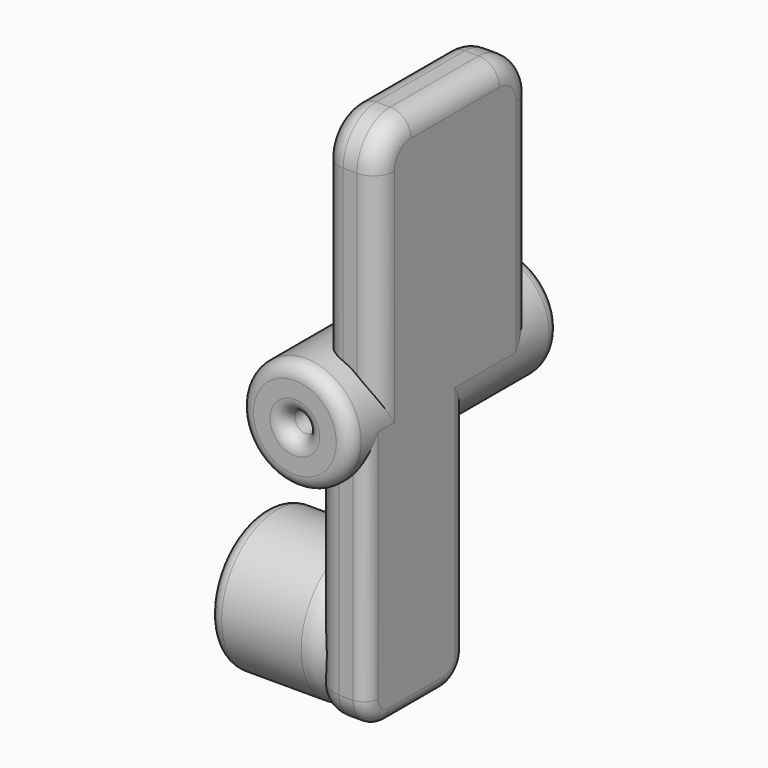
from build123d import *

# Parameters (mm, degrees)
CYLINDER015_R     = 5
CYLINDER015_DEPTH = 10
FILLET022_R       = 1
CHAMFER_SIZE      = 2
FILLET023_R       = 3
CYLINDER010_R     = 0.8
CYLINDER010_DEPTH = 20
CYLINDER009_R     = 4
CYLINDER009_DEPTH = 19
BOX003_W          = 4
BOX003_H          = 9
BOX003_DEPTH      = 19
FILLET_R          = 2
FILLET001_R       = 2
FILLET002_R       = 1
BOX004_W          = 4
BOX004_H          = 14
BOX004_DEPTH      = 19
FILLET003_R       = 3
FILLET004_R       = 1.5
FILLET005_R       = 1.5
FILLET006_R       = 1


with BuildPart() as fillet023:
    # Cylinder015 → Cylinder015 (new body)
    with BuildSketch(Plane(origin=(-19.5, -19, 16), x_dir=(0, 0, -1), z_dir=(1, 0, 0))):
        Circle(CYLINDER015_R)
    extrude(amount=CYLINDER015_DEPTH)

    # Fillet022
    fillet022_edges = [fillet023.edges().sort_by_distance(p)[0] for p in [
        (-19.5, -19, 21),
    ]]
    fillet(fillet022_edges, radius=FILLET022_R)

    # Chamfer
    chamfer_edges = [fillet023.edges().sort_by_distance(p)[0] for p in [
        (-9.5, -19, 21),
    ]]
    chamfer(chamfer_edges, length=CHAMFER_SIZE)

    # Fillet023
    fillet023_edges = [fillet023.edges().sort_by_distance(p)[0] for p in [
        (-11.5, -19, 21),
    ]]
    fillet(fillet023_edges, radius=FILLET023_R)


with BuildPart() as cylinder010:
    # Cylinder010 → Cylinder010 (new body)
    with BuildSketch(Plane(origin=(-12, -26, 31), x_dir=(1, 0, 0), z_dir=(0, 1, 0))):
        Circle(CYLINDER010_R)
    extrude(amount=CYLINDER010_DEPTH)


with BuildPart() as cylinder009:
    # Cylinder009 → Cylinder009 (new body)
    with BuildSketch(Plane(origin=(-12, -25.5, 31), x_dir=(1, 0, 0), z_dir=(0, 1, 0))):
        Circle(CYLINDER009_R)
    extrude(amount=CYLINDER009_DEPTH)


with BuildPart() as fillet002:
    # Box003 → Box003 (new body)
    with BuildSketch(Plane(origin=(-12, -24, 12), x_dir=(1, 0, 0), z_dir=(0, 0, 1))):
        with Locations((2, 4.5)):
            Rectangle(BOX003_W, BOX003_H)
    extrude(amount=BOX003_DEPTH)

    # Fillet
    fillet_edges = [fillet002.edges().sort_by_distance(p)[0] for p in [
        (-10, -24, 12),
        (-10, -15, 12),
    ]]
    fillet(fillet_edges, radius=FILLET_R)

    # Fillet001
    fillet001_edges = [fillet002.edges().sort_by_distance(p)[0] for p in [
        (-12, -15, 22.5),
    ]]
    fillet(fillet001_edges, radius=FILLET001_R)

    # Fillet002
    fillet002_edges = [fillet002.edges().sort_by_distance(p)[0] for p in [
        (-8, -15, 22.5),
    ]]
    fillet(fillet002_edges, radius=FILLET002_R)


with BuildPart() as obj1:
    # Box004 → Box004 (new body)
    with BuildSketch(Plane(origin=(-12, -23, 31), x_dir=(1, 0, 0), z_dir=(0, 0, 1))):
        with Locations((2, 7)):
            Rectangle(BOX004_W, BOX004_H)
    extrude(amount=BOX004_DEPTH)

    # Fillet003
    fillet003_edges = [obj1.edges().sort_by_distance(p)[0] for p in [
        (-10, -23, 50),
        (-10, -9, 50),
    ]]
    fillet(fillet003_edges, radius=FILLET003_R)

    # Fillet004
    fillet004_edges = [obj1.edges().sort_by_distance(p)[0] for p in [
        (-12, -23, 39),
    ]]
    fillet(fillet004_edges, radius=FILLET004_R)

    # Fillet005
    fillet005_edges = [obj1.edges().sort_by_distance(p)[0] for p in [
        (-8, -23, 39),
    ]]
    fillet(fillet005_edges, radius=FILLET005_R)

    # Fusion002: union Cylinder009, Fillet002
    add(cylinder009.part)
    add(fillet002.part)

    # Cut: cut Cylinder010
    add(cylinder010.part, mode=Mode.SUBTRACT)

    # Fillet006
    fillet006_edges = [obj1.edges().sort_by_distance(p)[0] for p in [
        (-16, -25.5, 31),
        (-16, -6.5, 31),
        (-12.8, -25.5, 31),
        (-12.8, -6.5, 31),
    ]]
    fillet(fillet006_edges, radius=FILLET006_R)

    # Fusion007: union Fillet023
    add(fillet023.part)


solid = obj1.part
